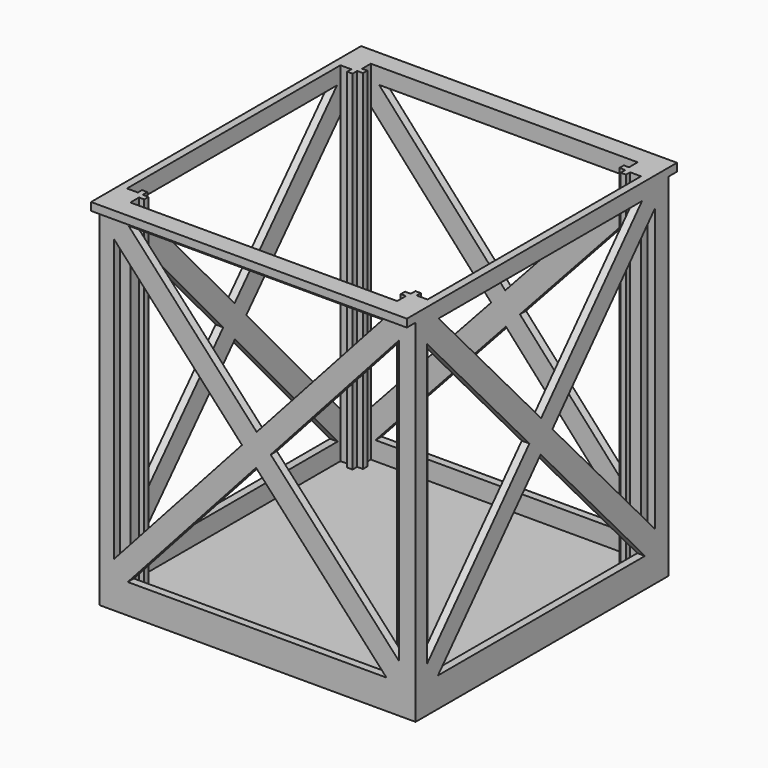
from build123d import *

# Parameters (mm, degrees)
F1_DEPTH  = 64
F4_DEPTH  = 1.4
F6_DEPTH  = 2
F8_COUNT  = 4
F9_W      = 58
F9_H      = 1.4429360032
F10_DEPTH = 2


with BuildPart() as f1:
    # F0 (on Top) → F1 (new body)
    with BuildSketch(Plane.XY):
        Polygon((0, -27.6), (0, -29), (29, -29), (24.6101661921, -24.6101661921), (23.5489513725, -24.6101661921), (23.5489513725, -25.6), (24.5, -25.6), (24.5, -27.6), align=None)
    extrude(amount=F1_DEPTH)

    # F2: F1 across plane


with BuildPart() as f1_1:
    add(f1.part)
    add(f1.part.mirror(Plane.YZ))

    # F3 (on face) → F4 (cut)
    with BuildSketch(Plane.XZ.offset(29)):
        Polygon((-2.8809057808, 32.3860045068), (-26.4172293246, 58.0803863704), (-26.4172293246, 6.2722163275), align=None)
        Polygon((22.9713302106, 61.0693208873), (-23.7129572779, 61.0693208873), (-0.1818502389, 35.3806338326), align=None)
        Polygon((25.9602628648, 58.6964643958), (2.4026971831, 32.5591078504), (25.9602628648, 6.8415361457), align=None)
        Polygon((23.6471185492, 3.425611183), (-0.2963583588, 29.5644785245), (-23.855285719, 3.425611183), align=None)
    extrude(amount=-F4_DEPTH, mode=Mode.SUBTRACT)

    # F5 (on face) → F6 (join)
    with BuildSketch(Plane(origin=(0, 0, 0), x_dir=(1, 0, 0), z_dir=(0, 0, -1))):
        Polygon((29, 29), (-29, 29), (0, 0), align=None)
    extrude(amount=F6_DEPTH)


with BuildPart() as f8_1:
    # F8: instance of F1
    add(f1_1.part.rotate(Axis((0, 0, 25.6520500407), (0, 0, -1)), 1 * 360 / F8_COUNT))


with BuildPart() as f8_2:
    # F8: instance of F1
    add(f1_1.part.rotate(Axis((0, 0, 25.6520500407), (0, 0, -1)), 2 * 360 / F8_COUNT))


with BuildPart() as f8_3:
    # F8: instance of F1
    add(f1_1.part.rotate(Axis((0, 0, 25.6520500407), (0, 0, -1)), 3 * 360 / F8_COUNT))


with BuildPart() as f10:
    # F9 (on face) → F10 (new body)
    with BuildSketch(Plane.XZ.offset(29)):
        with Locations((0, 63.2785319984)):
            Rectangle(F9_W, F9_H)
    extrude(amount=F10_DEPTH)


with BuildPart() as f1_2:
    add(f1_1.part)

    add(f8_1.part)  # F11 merges F8_1

    add(f8_2.part)  # F11 merges F8_2

    add(f8_3.part)  # F11 merges F8_3

    add(f10.part)  # F11 merges F10
    # F11: F10 across plane
    add(f10.part.mirror(Plane.XZ))


solid = f1_2.part
